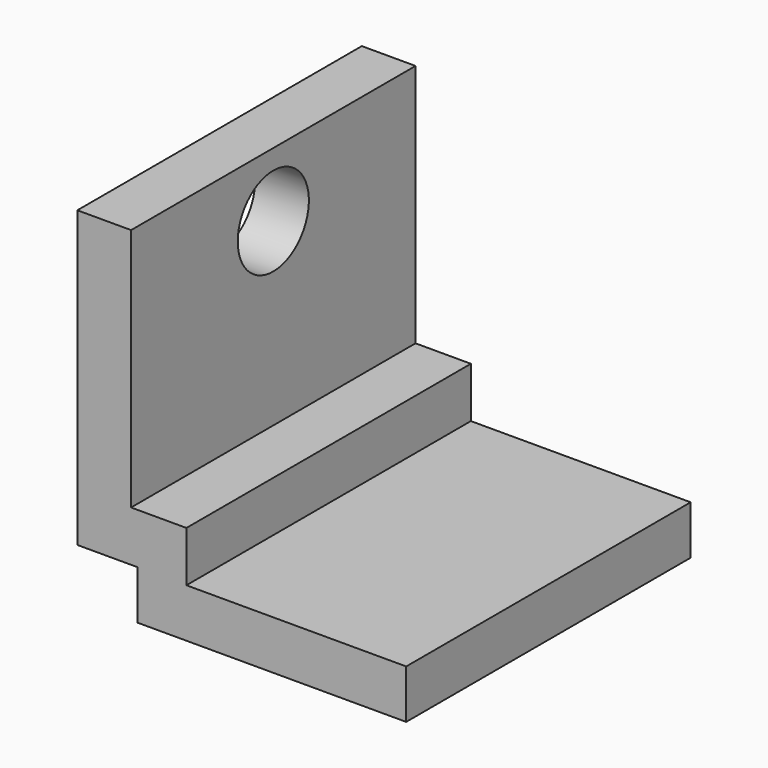
from build123d import *

# Parameters (mm, degrees)
F1_DEPTH = 50.8
F3_D     = 12.7


with BuildPart() as f1:
    # F0 (on Front) → F1 (new body)
    with BuildSketch(Plane.XZ):
        Polygon((7.675379, 49.075902), (0, 49.075902), (0, 6.977616), (8.605727, 6.977616), (8.605727, 0), (46.982616, 0), (46.982616, 6.977616), (15.583342, 6.977616), (15.583342, 14.187819), (7.675379, 14.187819), align=None)
    extrude(amount=F1_DEPTH)

    # F3 (through all)
    with Locations(Plane.YZ.offset(7.675379)):
        with Locations((-25.4, 39.895806)):
            Hole(F3_D / 2)


solid = f1.part
